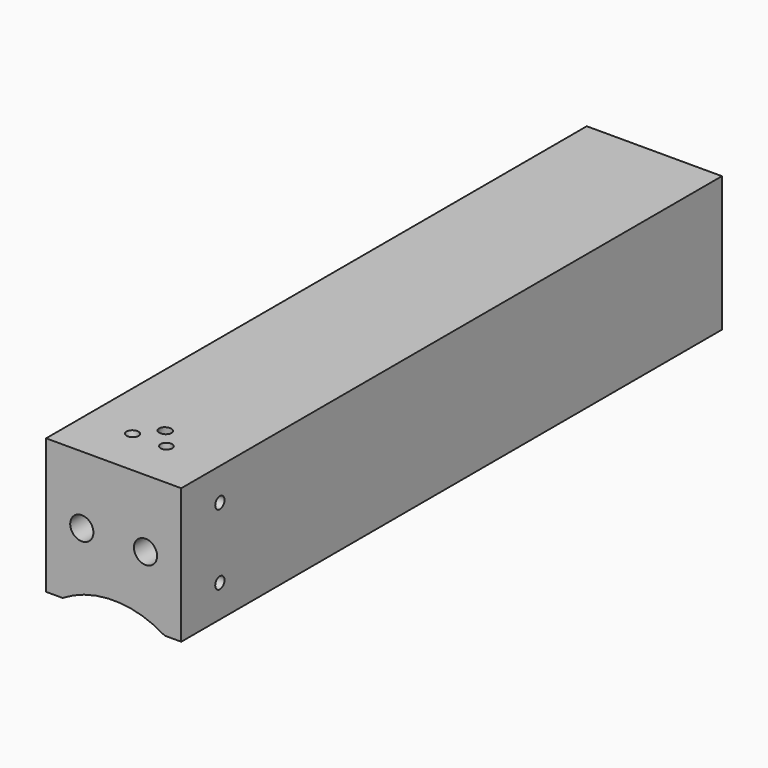
from build123d import *

# Parameters (mm, degrees)
F0_R      = 6
F1_DEPTH  = 350
F7_D      = 6
F7_DEPTH  = 30
F7_TIP    = 1.8025818571
F8_D      = 6
F8_DEPTH  = 15
F8_TIP    = 1.8025818571
F9_D      = 6
F9_DEPTH  = 30
F9_TIP    = 1.8025818571
F12_R     = 3
F13_DEPTH = 62
F15_R     = 3
F16_DEPTH = 40


with BuildPart() as f1:
    # F0 (on Front) → F1 (new body)
    with BuildSketch(Plane.XZ):
        with BuildLine():
            Line((0, 70), (0, 0))
            Line((0, 0), (8.57, 0))
            ThreePointArc((8.57, 0), (35, 7.5), (61.43, 0))
            Line((61.43, 0), (70, 0))
            Line((70, 0), (70, 70))
            Line((70, 70), (0, 70))
        make_face()
        with Locations((18.5, 35)):
            Circle(F0_R, mode=Mode.SUBTRACT)
        with Locations((51.5, 35)):
            Circle(F0_R, mode=Mode.SUBTRACT)
    extrude(amount=-F1_DEPTH)

    # F7
    with Locations(Plane.YZ.offset(70)):
        with Locations((25, 53.25)):
            Hole(F7_D / 2, depth=F7_DEPTH)
            with Locations((0, 0, -(F7_DEPTH + F7_TIP / 2))):  # 118° drill point
                Cone(0, F7_D / 2, F7_TIP, mode=Mode.SUBTRACT)

    # F8
    with Locations(Plane.XY.offset(70)):
        with Locations((42.3, 25)):
            Hole(F8_D / 2, depth=F8_DEPTH)
            with Locations((0, 0, -(F8_DEPTH + F8_TIP / 2))):  # 118° drill point
                Cone(0, F8_D / 2, F8_TIP, mode=Mode.SUBTRACT)

    # F9
    with Locations(Plane.YZ.offset(70)):
        with Locations((25, 16.75)):
            Hole(F9_D / 2, depth=F9_DEPTH)
            with Locations((0, 0, -(F9_DEPTH + F9_TIP / 2))):  # 118° drill point
                Cone(0, F9_D / 2, F9_TIP, mode=Mode.SUBTRACT)

    # F12 (on line) → F13 (cut)
    with BuildSketch(Plane(origin=(-18.0397945849, 0, 63.3237180608), x_dir=(0.9617350709, 0, 0.2739811188), z_dir=(-0.2739811188, 0, 0.9617350709))):
        with Locations((43.029708076, 25)):
            Circle(F12_R)
    extrude(amount=-F13_DEPTH, mode=Mode.SUBTRACT)

    # F15 (on line) → F16 (cut)
    with BuildSketch(Plane(origin=(31.5961108407, 0, 73.7242586283), x_dir=(0.91914503, 0, -0.3939192986), z_dir=(-0.3939192986, 0, -0.91914503))):
        with Locations((3.2170076051, -35.3)):
            Circle(F15_R)
    extrude(amount=F16_DEPTH, mode=Mode.SUBTRACT)


solid = f1.part
